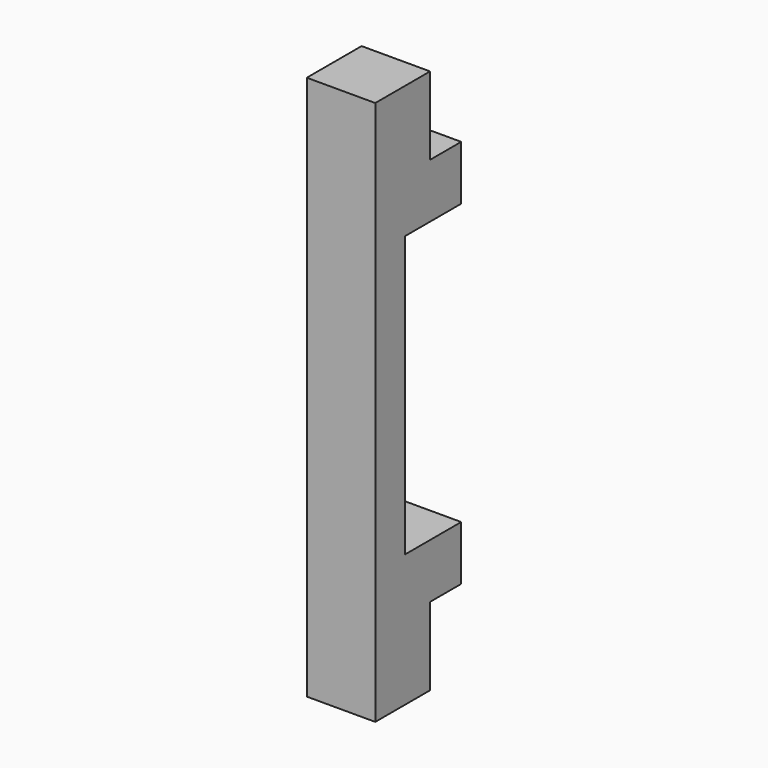
from build123d import *

# Parameters (mm, degrees)
F0_W     = 44
F0_H     = 69
F1_DEPTH = 350
F2_W     = 25
F2_H     = 50
F3_DEPTH = 44.001


with BuildPart() as f1:
    # F0 (on Top) → F1 (new body)
    with BuildSketch(Plane.XY):
        Rectangle(F0_W, F0_H)
    extrude(amount=F1_DEPTH)

    # F2 (on face) → F3 (cut, through all)
    with BuildSketch(Plane.YZ.offset(22)):
        Polygon((-10.5, 85), (34.5, 85), (34.5, 175), (34.5, 265), (-10.5, 265), (-10.5, 175), align=None)
        with Locations((22, 25)):
            Rectangle(F2_W, F2_H)
        with Locations((22, 325)):
            Rectangle(F2_W, F2_H)
    extrude(amount=-F3_DEPTH, mode=Mode.SUBTRACT)


solid = f1.part
